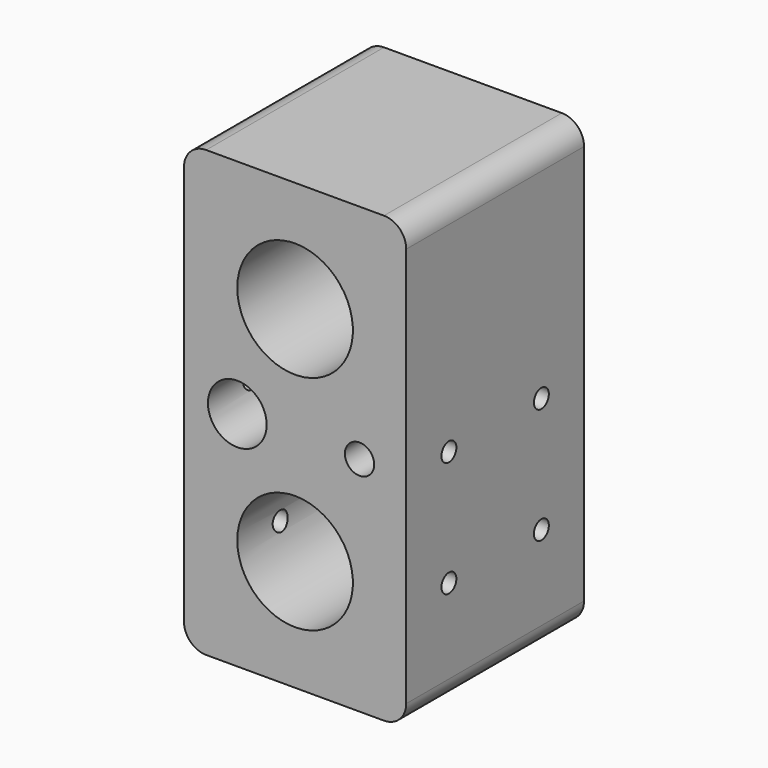
from build123d import *

# Parameters (mm, degrees)
F0_W     = 50
F0_H     = 100
F1_DEPTH = 50
F2_D     = 26
F3_D     = 6.6
F4_D     = 13.2
F5_R     = 5
F7_D     = 4.2
F7_DEPTH = 52.4
F7_TIP   = 1.2618073
F8_D     = 4.2
F8_DEPTH = 50
F8_TIP   = 1.2618073


with BuildPart() as f1:
    # F0 (on Front) → F1 (new body)
    with BuildSketch(Plane.XZ):
        Rectangle(F0_W, F0_H)
    extrude(amount=F1_DEPTH)

    # F2 (through all)
    with Locations(Plane(origin=(0, 0, 0), x_dir=(1, 0, 0), z_dir=(0, 1, 0))):
        with Locations((0, -25), (0, 25)):
            Hole(F2_D / 2)

    # F3 (through all)
    with Locations(Plane(origin=(0, 0, 0), x_dir=(1, 0, 0), z_dir=(0, 1, 0))):
        with Locations((14.5, 0)):
            Hole(F3_D / 2)

    # F4 (through all)
    with Locations(Plane(origin=(0, 0, 0), x_dir=(1, 0, 0), z_dir=(0, 1, 0))):
        with Locations((-13, 0)):
            Hole(F4_D / 2)

    # F5
    f5_edges = [f1.edges().sort_by_distance(p)[0] for p in [
        (-25, -25, 50),
        (25, -25, 50),
        (25, -25, -50),
        (-25, -25, -50),
    ]]
    fillet(f5_edges, radius=F5_R)

    # F7
    with Locations(Plane(origin=(-25, 0, 0), x_dir=(0, -1, 0), z_dir=(-1, 0, 0))):
        with Locations((12, 0), (38, 0)):
            Hole(F7_D / 2, depth=F7_DEPTH)
            with Locations((0, 0, -(F7_DEPTH + F7_TIP / 2))):  # 118° drill point
                Cone(0, F7_D / 2, F7_TIP, mode=Mode.SUBTRACT)

    # F8
    with Locations(Plane(origin=(-25, 0, 0), x_dir=(0, -1, 0), z_dir=(-1, 0, 0))):
        with Locations((12, -26), (38, -26)):
            Hole(F8_D / 2, depth=F8_DEPTH)
            with Locations((0, 0, -(F8_DEPTH + F8_TIP / 2))):  # 118° drill point
                Cone(0, F8_D / 2, F8_TIP, mode=Mode.SUBTRACT)


solid = f1.part
